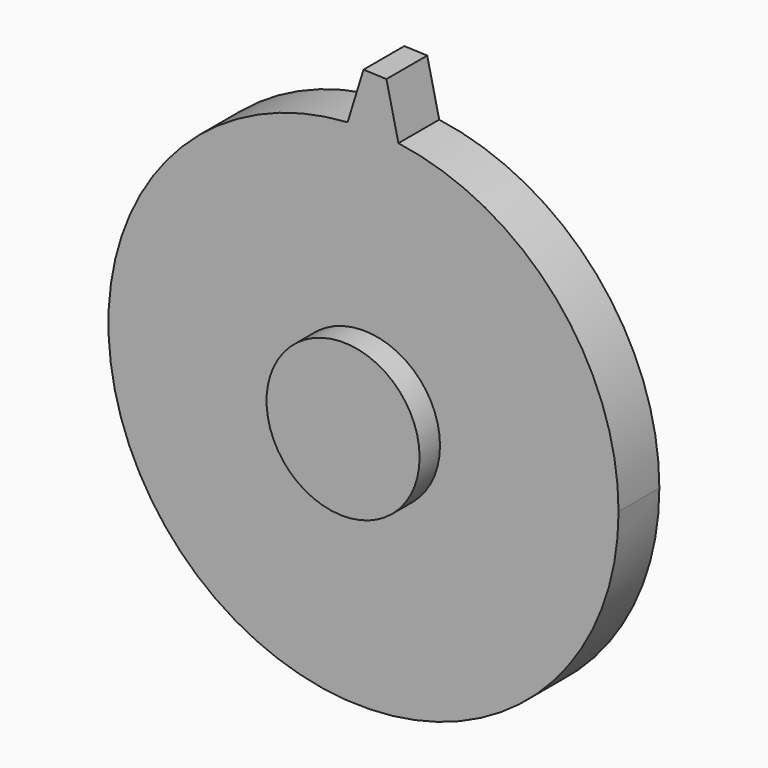
from build123d import *

# Parameters (mm, degrees)
F0_R     = 30
F1_DEPTH = 30
F2_DEPTH = 20
F3_DEPTH = 20


with BuildPart() as f1:
    # F0 (on Front) → F1 (new body)
    with BuildSketch(Plane.XZ):
        Circle(F0_R)
    extrude(amount=F1_DEPTH)

    # F0 (on Front) → F2 (join)
    with BuildSketch(Plane.XZ):
        with BuildLine():
            ThreePointArc((-6.23154, 99.805651), (-68.47206, -72.880567), (100, 0))
            ThreePointArc((100, 0), (75.397007, 65.690877), (13.694172, 99.057911))
            ThreePointArc((13.694172, 99.057911), (3.75, 99.929663), (-6.23154, 99.805651))
        make_face()
        Circle(F0_R, mode=Mode.SUBTRACT)
    extrude(amount=F2_DEPTH)

    # F0 (on Front) → F3 (join)
    with BuildSketch(Plane.XZ):
        with BuildLine():
            ThreePointArc((-6.23154, 99.805651), (3.75, 99.929663), (13.694172, 99.057911))
            Line((13.694172, 99.057911), (8.99367, 119.6625))
            Line((8.99367, 119.6625), (0, 120))
            Line((0, 120), (-6.23154, 99.805651))
        make_face()
    extrude(amount=F3_DEPTH)


solid = f1.part
